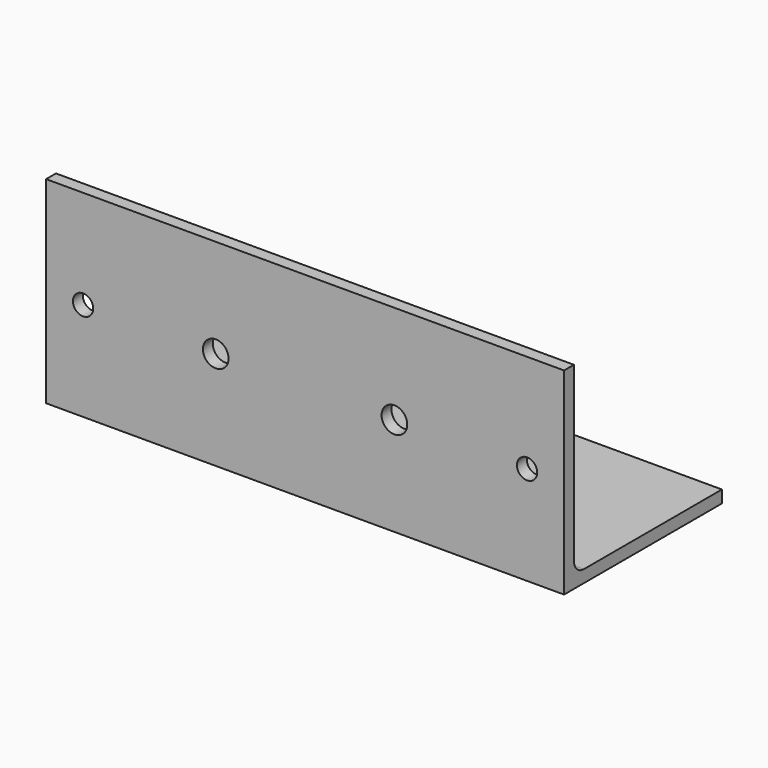
from build123d import *

# Parameters (mm, degrees)
F1_DEPTH = 133.35
F2_R     = 2.6162
F2_R_2   = 3.3
F3_DEPTH = 50.801


with BuildPart() as f1:
    # F0 (on Right) → F1 (new body)
    with BuildSketch(Plane.YZ):
        with BuildLine():
            Line((0, -44.45), (0, 0))
            Line((0, 0), (-3.175, 0))
            Line((-3.175, 0), (-3.175, -50.8))
            Line((-3.175, -50.8), (47.625, -50.8))
            Line((47.625, -50.8), (47.625, -47.625))
            Line((47.625, -47.625), (3.175, -47.625))
            ThreePointArc((3.175, -47.625), (0.929936, -46.695064), (0, -44.45))
        make_face()
    extrude(amount=-F1_DEPTH)

    # F2 (on face) → F3 (cut, through all)
    with BuildSketch(Plane.XZ.offset(3.175)):
        with Locations((-123.825, -25.4)):
            Circle(F2_R)
        with Locations((-9.525, -25.4)):
            Circle(F2_R)
        with Locations((-89.6747, -25.4)):
            Circle(F2_R_2)
        with Locations((-43.6753, -25.4)):
            Circle(F2_R_2)
    extrude(amount=-F3_DEPTH, mode=Mode.SUBTRACT)


solid = f1.part
